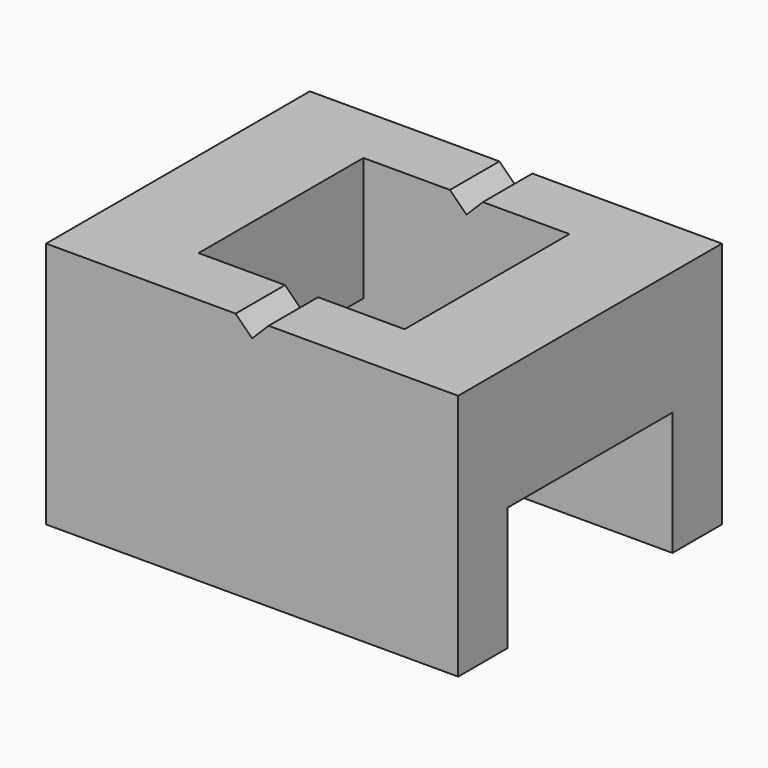
from build123d import *

# Parameters (mm, degrees)
F0_W     = 50
F0_H     = 40
F1_DEPTH = 30
F2_W     = 25
F2_H     = 30
F3_DEPTH = 50.001
F4_W     = 25
F4_H     = 25
F5_DEPTH = 30.001
F7_DEPTH = 40.001


with BuildPart() as f1:
    # F0 (on Top) → F1 (new body)
    with BuildSketch(Plane.XY):
        Rectangle(F0_W, F0_H)
    extrude(amount=F1_DEPTH)

    # F2 (on face) → F3 (cut, through all)
    with BuildSketch(Plane.YZ.offset(25)):
        Rectangle(F2_W, F2_H)
    extrude(amount=-F3_DEPTH, mode=Mode.SUBTRACT)

    # F4 (on face) → F5 (cut, through all)
    with BuildSketch(Plane.XY.offset(30)):
        Rectangle(F4_W, F4_H)
    extrude(amount=-F5_DEPTH, mode=Mode.SUBTRACT)

    # F6 (on face) → F7 (cut, through all)
    with BuildSketch(Plane(origin=(0, 20, 0), x_dir=(-1, 0, 0), z_dir=(0, 1, 0))):
        Polygon((2, 30), (0, 30), (-2, 30), (0, 28), align=None)
    extrude(amount=-F7_DEPTH, mode=Mode.SUBTRACT)


solid = f1.part
